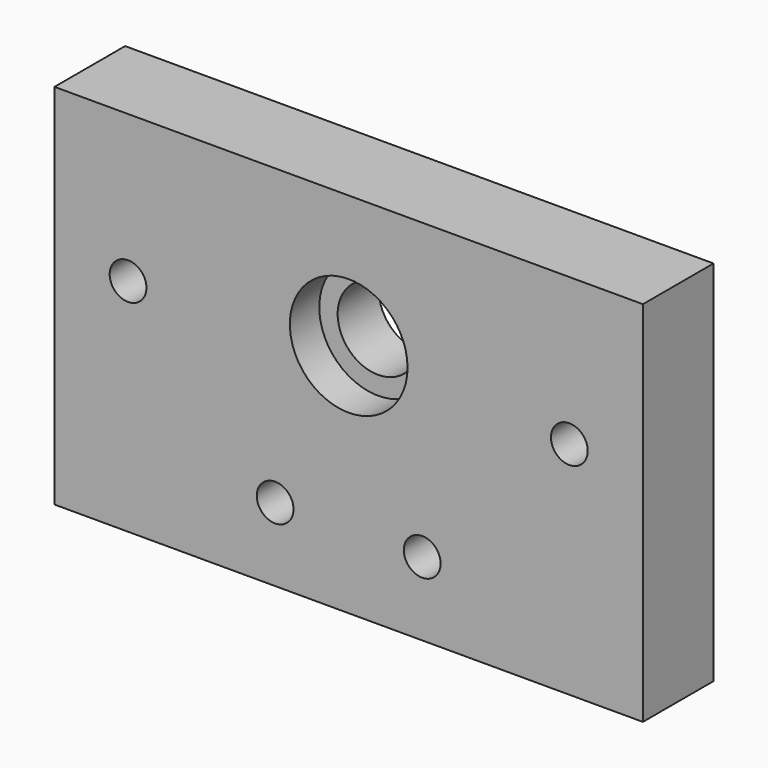
from build123d import *

# Parameters (mm, degrees)
F0_W     = 80
F0_H     = 50
F0_R     = 2.5
F0_R_2   = 5.5
F1_DEPTH = 12
F2_R     = 8
F2_R_2   = 5.5
F3_DEPTH = 5


with BuildPart() as f1:
    # F0 (on Front) → F1 (new body)
    with BuildSketch(Plane.XZ):
        Rectangle(F0_W, F0_H)
        with Locations((-10, -15)):
            Circle(F0_R, mode=Mode.SUBTRACT)
        with Locations((10, -15)):
            Circle(F0_R, mode=Mode.SUBTRACT)
        with Locations((-30, 5)):
            Circle(F0_R, mode=Mode.SUBTRACT)
        with Locations((0, 7)):
            Circle(F0_R_2, mode=Mode.SUBTRACT)
        with Locations((30, 5)):
            Circle(F0_R, mode=Mode.SUBTRACT)
    extrude(amount=F1_DEPTH)

    # F2 (on face) → F3 (cut)
    with BuildSketch(Plane.XZ.offset(12)):
        with Locations((0, 7)):
            Circle(F2_R)
        with Locations((0, 7)):
            Circle(F2_R_2, mode=Mode.SUBTRACT)
    extrude(amount=-F3_DEPTH, mode=Mode.SUBTRACT)


solid = f1.part
